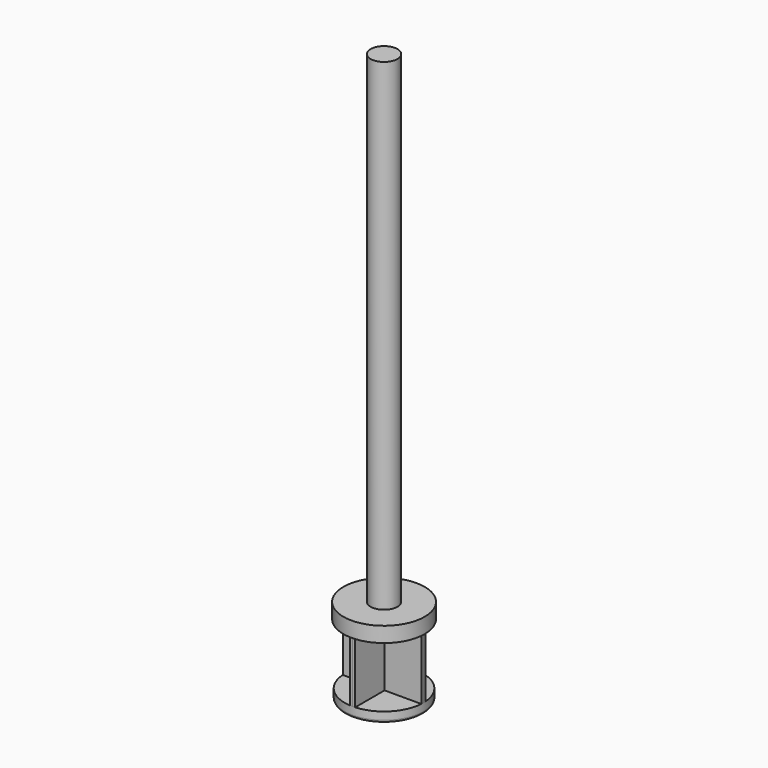
from build123d import *

# Parameters (mm, degrees)
F0_R     = 7.75
F1_DEPTH = 2
F3_DEPTH = 12
F4_R     = 8
F5_DEPTH = 3
F6_R     = 0.5
F7_R     = 2.65
F8_DEPTH = 95


with BuildPart() as f1:
    # F0 (on Top) → F1 (new body)
    with BuildSketch(Plane.XY):
        Circle(F0_R)
    extrude(amount=F1_DEPTH)

    # F2 (on face) → F3 (join)
    with BuildSketch(Plane.XY.offset(2)):
        Polygon((0.5, 0), (0.5, 0.5), (0, 0.5), (-0.5, 0.5), (-0.5, 0), (-0.5, -0.5), (0, -0.5), (0.5, -0.5), align=None)
        with BuildLine():
            Line((-0.5, 0), (-0.5, 0.5))
            Line((-0.5, 0.5), (-7.7338541491, 0.5))
            ThreePointArc((-7.7338541491, 0.5), (-7.7459624856, 0.2501303103), (-7.75, 0))
            ThreePointArc((-7.75, 0), (-7.7459624856, -0.2501303103), (-7.7338541491, -0.5))
            Line((-7.7338541491, -0.5), (-0.5, -0.5))
            Line((-0.5, -0.5), (-0.5, 0))
        make_face()
        with BuildLine():
            ThreePointArc((0.5, 7.7338541491), (0.2501303103, 7.7459624856), (0, 7.75))
            ThreePointArc((0, 7.75), (-0.2501303103, 7.7459624856), (-0.5, 7.7338541491))
            Line((-0.5, 7.7338541491), (-0.5, 0.5))
            Line((-0.5, 0.5), (0, 0.5))
            Line((0, 0.5), (0.5, 0.5))
            Line((0.5, 0.5), (0.5, 7.7338541491))
        make_face()
        with BuildLine():
            Line((7.7338541491, 0.5), (0.5, 0.5))
            Line((0.5, 0.5), (0.5, 0))
            Line((0.5, 0), (0.5, -0.5))
            Line((0.5, -0.5), (7.7338541491, -0.5))
            ThreePointArc((7.7338541491, -0.5), (7.7459624856, -0.2501303103), (7.75, 0))
            ThreePointArc((7.75, 0), (7.7459624856, 0.2501303103), (7.7338541491, 0.5))
        make_face()
        with BuildLine():
            Line((0.5, -7.7338541491), (0.5, -0.5))
            Line((0.5, -0.5), (0, -0.5))
            Line((0, -0.5), (-0.5, -0.5))
            Line((-0.5, -0.5), (-0.5, -7.7338541491))
            ThreePointArc((-0.5, -7.7338541491), (-0.2501303103, -7.7459624856), (0, -7.75))
            ThreePointArc((0, -7.75), (0.2501303103, -7.7459624856), (0.5, -7.7338541491))
        make_face()
    extrude(amount=F3_DEPTH)

    # F4 (on face) → F5 (join)
    with BuildSketch(Plane.XY.offset(14)):
        Circle(F4_R)
        with BuildLine():
            Line((-7.7338541491, 0.5), (-0.5, 0.5))
            Line((-0.5, 0.5), (-0.5, 7.7338541491))
            ThreePointArc((-0.5, 7.7338541491), (0, 7.75), (0.5, 7.7338541491))
            Line((0.5, 7.7338541491), (0.5, 0.5))
            Line((0.5, 0.5), (7.7338541491, 0.5))
            ThreePointArc((7.7338541491, 0.5), (7.75, 0), (7.7338541491, -0.5))
            Line((7.7338541491, -0.5), (0.5, -0.5))
            Line((0.5, -0.5), (0.5, -7.7338541491))
            ThreePointArc((0.5, -7.7338541491), (0, -7.75), (-0.5, -7.7338541491))
            Line((-0.5, -7.7338541491), (-0.5, -0.5))
            Line((-0.5, -0.5), (-7.7338541491, -0.5))
            ThreePointArc((-7.7338541491, -0.5), (-7.75, 0), (-7.7338541491, 0.5))
        make_face(mode=Mode.SUBTRACT)
        with BuildLine():
            Line((-0.5, 7.7338541491), (-0.5, 0.5))
            Line((-0.5, 0.5), (-7.7338541491, 0.5))
            ThreePointArc((-7.7338541491, 0.5), (-7.75, 0), (-7.7338541491, -0.5))
            Line((-7.7338541491, -0.5), (-0.5, -0.5))
            Line((-0.5, -0.5), (-0.5, -7.7338541491))
            ThreePointArc((-0.5, -7.7338541491), (0, -7.75), (0.5, -7.7338541491))
            Line((0.5, -7.7338541491), (0.5, -0.5))
            Line((0.5, -0.5), (7.7338541491, -0.5))
            ThreePointArc((7.7338541491, -0.5), (7.75, 0), (7.7338541491, 0.5))
            Line((7.7338541491, 0.5), (0.5, 0.5))
            Line((0.5, 0.5), (0.5, 7.7338541491))
            ThreePointArc((0.5, 7.7338541491), (0, 7.75), (-0.5, 7.7338541491))
        make_face()
    extrude(amount=F5_DEPTH)

    # F6
    f6_edges = [f1.edges().sort_by_distance(p)[0] for p in [
        (-7.75, 0, 0),
    ]]
    fillet(f6_edges, radius=F6_R)

    # F7 (on face) → F8 (join)
    with BuildSketch(Plane.XY.offset(17)):
        Circle(F7_R)
    extrude(amount=F8_DEPTH)


solid = f1.part
